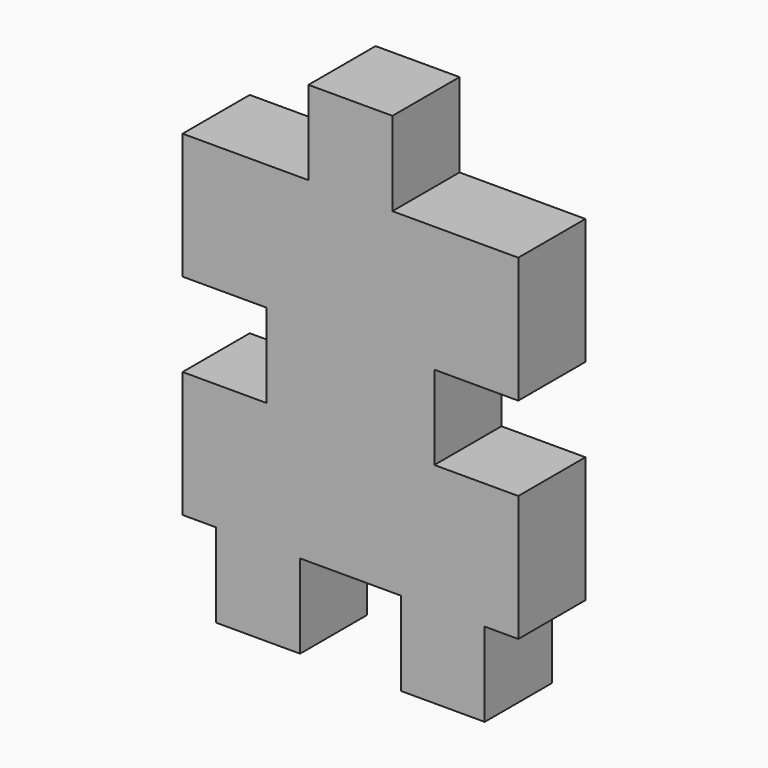
from build123d import *

# Parameters (mm, degrees)
F0_W     = 6.35
F0_H     = 6.35
F1_DEPTH = 6.35
F2_DEPTH = 6.35


with BuildPart() as f1:
    # F0 (on Front) → F1 (new body)
    with BuildSketch(Plane.XZ):
        Polygon((-3.175, 15.345833), (-12.7, 15.345833), (-12.7, 5.820833), (-6.35, 5.820833), (-6.35, -0.529167), (-12.7, -0.529167), (-12.7, -10.054167), (-10.16, -10.054167), (-3.81, -10.054167), (3.81, -10.054167), (10.16, -10.054167), (12.7, -10.054167), (12.7, -0.529167), (6.35, -0.529167), (6.35, 5.820833), (12.7, 5.820833), (12.7, 15.345833), (3.175, 15.345833), align=None)
        with Locations((0, 18.520833)):
            Rectangle(F0_W, F0_H)
        with Locations((-9.525, 2.645833)):
            Rectangle(F0_W, F0_H)
        with Locations((9.525, 2.645833)):
            Rectangle(F0_W, F0_H)
        with Locations((-6.985, -13.229167)):
            Rectangle(F0_W, F0_H)
        with Locations((6.985, -13.229167)):
            Rectangle(F0_W, F0_H)
    extrude(amount=F1_DEPTH)

    # F0 (on Front) → F2 (cut)
    with BuildSketch(Plane.XZ):
        with Locations((-9.525, 2.645833)):
            Rectangle(F0_W, F0_H)
        with Locations((9.525, 2.645833)):
            Rectangle(F0_W, F0_H)
    extrude(amount=F2_DEPTH, mode=Mode.SUBTRACT)


solid = f1.part
